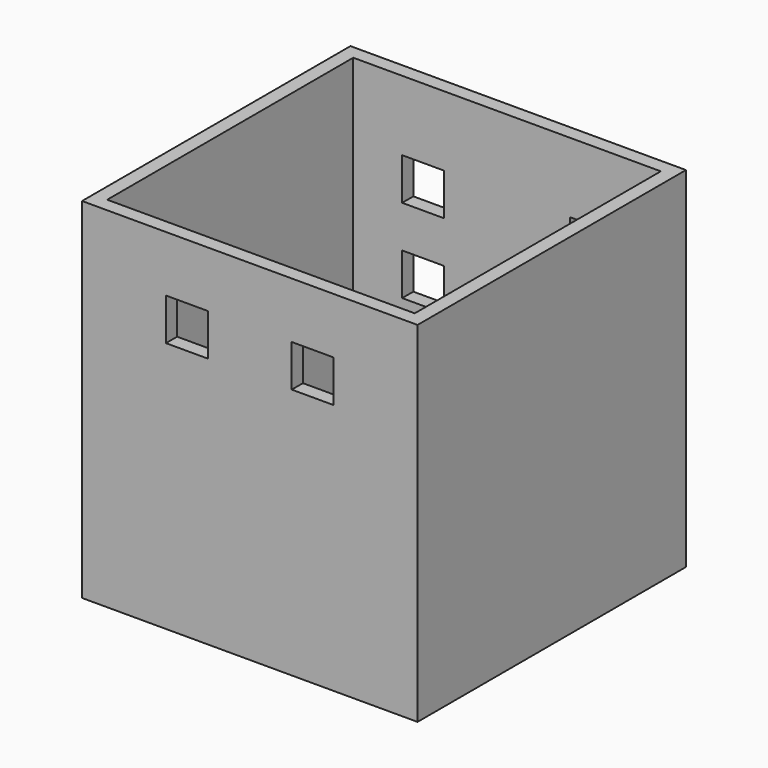
from build123d import *

# Parameters (mm, degrees)
F0_W     = 24
F0_H     = 24
F0_W_2   = 22
F0_H_2   = 22
F1_DEPTH = 25
F2_W     = 3
F2_H     = 3
F3_DEPTH = 1
F4_W     = 3
F4_H     = 3
F5_DEPTH = 1


with BuildPart() as f1:
    # F0 (on Top) → F1 (new body)
    with BuildSketch(Plane.XY):
        Rectangle(F0_W, F0_H)
        Rectangle(F0_W_2, F0_H_2, mode=Mode.SUBTRACT)
    extrude(amount=F1_DEPTH)

    # F2 (on face) → F3 (cut, through all)
    with BuildSketch(Plane.XZ.offset(12)):
        with Locations((-4.5, 19.5)):
            Rectangle(F2_W, F2_H)
        with Locations((4.5, 19.5)):
            Rectangle(F2_W, F2_H)
    extrude(amount=-F3_DEPTH, mode=Mode.SUBTRACT)

    # F4 (on face) → F5 (cut, through all)
    with BuildSketch(Plane(origin=(0, 12, 0), x_dir=(-1, 0, 0), z_dir=(0, 1, 0))):
        with Locations((-6, 6.5)):
            Rectangle(F4_W, F4_H)
        with Locations((-6, 12.5)):
            Rectangle(F4_W, F4_H)
        with Locations((-6, 18.5)):
            Rectangle(F4_W, F4_H)
        with Locations((6, 18.5)):
            Rectangle(F4_W, F4_H)
        with Locations((6, 12.5)):
            Rectangle(F4_W, F4_H)
        with Locations((6, 6.5)):
            Rectangle(F4_W, F4_H)
    extrude(amount=-F5_DEPTH, mode=Mode.SUBTRACT)


solid = f1.part
